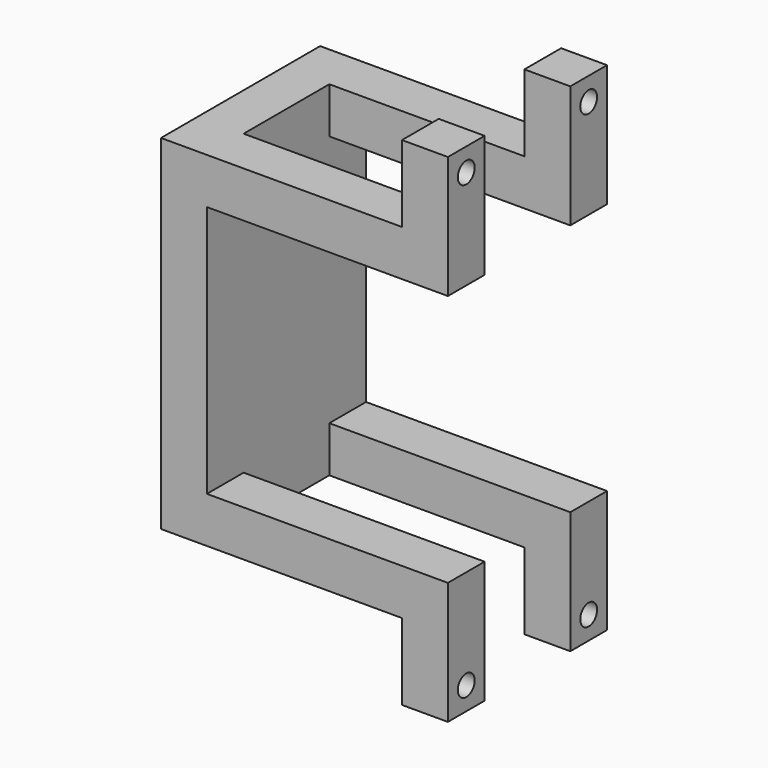
from build123d import *

# Parameters (mm, degrees)
F1_DEPTH      = 52
F2_W          = 63
F2_H          = 28
F3_DEPTH      = 110.001
F3_DEPTH_BACK = 20.001
F4_R          = 2.75
F5_DEPTH      = 12.001


with BuildPart() as f1:
    # F0 (on Front) → F1 (new body)
    with BuildSketch(Plane.XZ):
        Polygon((0, 12), (0, 0), (63, 0), (63, -20), (75, -20), (75, 0), (75, 12), (12, 12), (12, 78), (75, 78), (75, 90), (75, 110), (63, 110), (63, 90), (0, 90), align=None)
    extrude(amount=F1_DEPTH)

    # F2 (on face) → F3 (cut, two sides)
    with BuildSketch(Plane.XY.offset(90)) as f3_sk:
        with Locations((43.5, -26)):
            Rectangle(F2_W, F2_H)
    extrude(amount=-F3_DEPTH, mode=Mode.SUBTRACT)
    extrude(f3_sk.sketch, amount=F3_DEPTH_BACK, mode=Mode.SUBTRACT)

    # F4 (on face) → F5 (cut, through all)
    with BuildSketch(Plane(origin=(63, 0, 0), x_dir=(0, -1, 0), z_dir=(-1, 0, 0))):
        with Locations((6, 104)):
            Circle(F4_R)
        with Locations((46, 104)):
            Circle(F4_R)
        with Locations((6, -14)):
            Circle(F4_R)
        with Locations((46, -14)):
            Circle(F4_R)
    extrude(amount=-F5_DEPTH, mode=Mode.SUBTRACT)


solid = f1.part
